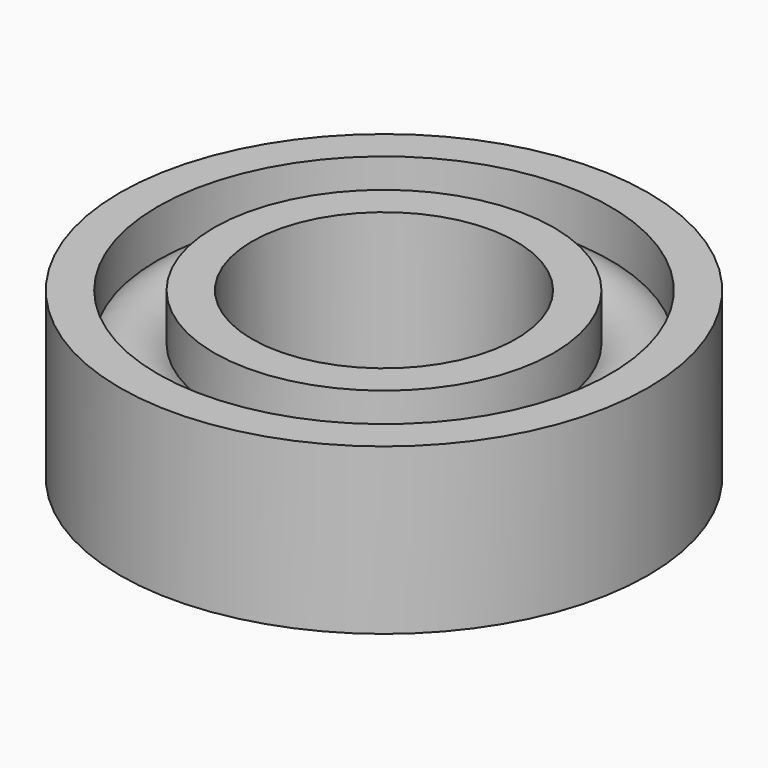
from build123d import *


with BuildPart() as f1:
    # F0 (on Front) → F1 (revolve)
    with BuildSketch(Plane.XZ):
        with BuildLine():
            Line((-6.856, 5), (-8, 5))
            Line((-8, 5), (-8, 0))
            Line((-8, 0), (-6.856, 0))
            Line((-6.856, 0), (-6.856, 1.43))
            ThreePointArc((-6.856, 1.43), (-6, 1.1297314132), (-5.144, 1.43))
            Line((-5.144, 1.43), (-5.144, 0))
            Line((-5.144, 0), (-4, 0))
            Line((-4, 0), (-4, 5))
            Line((-4, 5), (-5.144, 5))
            Line((-5.144, 5), (-5.144, 3.57))
            ThreePointArc((-5.144, 3.57), (-6, 3.8702685868), (-6.856, 3.57))
            Line((-6.856, 3.57), (-6.856, 5))
        make_face()
    revolve(axis=Axis((0, 0, 1.894922927), (0, 0, -1)))


solid = f1.part
